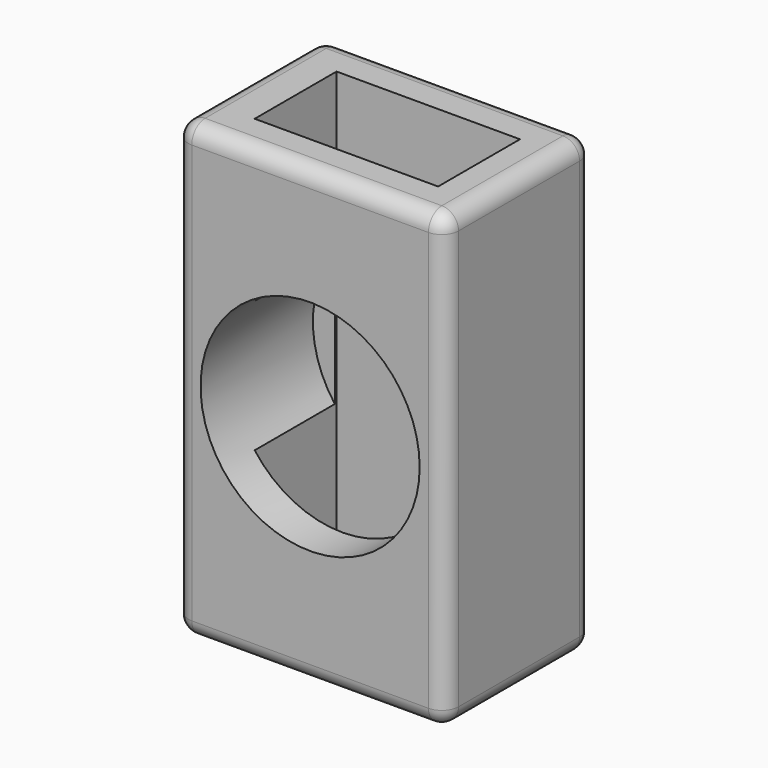
from build123d import *

# Parameters (mm, degrees)
F0_W     = 82.09557
F0_H     = 137.457938
F1_DEPTH = 56.134
F2_R     = 5.08
F3_W     = 55.741566
F3_H     = 31.093935
F5_DEPTH = 129.286
F4_R     = 33.290636
F6_DEPTH = 42.672


with BuildPart() as f1:
    # F0 (on Front) → F1 (new body)
    with BuildSketch(Plane.XZ):
        Rectangle(F0_W, F0_H)
    extrude(amount=F1_DEPTH)

    # F2
    f2_edges = [f1.edges().sort_by_distance(p)[0] for p in [
        (0, -56.134, 68.728969),
        (41.047785, -28.067, 68.728969),
        (0, 0, 68.728969),
        (-41.047785, -28.067, 68.728969),
        (41.047785, -56.134, 0),
        (-41.047785, -56.134, 0),
        (0, -56.134, -68.728969),
        (41.047785, -28.067, -68.728969),
        (0, 0, -68.728969),
        (-41.047785, -28.067, -68.728969),
        (41.047785, 0, 0),
        (-41.047785, 0, 0),
    ]]
    fillet(f2_edges, radius=F2_R)

    # F3 (on face) → F5 (cut)
    with BuildSketch(Plane.XY.offset(68.728969)):
        with Locations((1.232381, -28.344775)):
            Rectangle(F3_W, F3_H)
    extrude(amount=-F5_DEPTH, mode=Mode.SUBTRACT)

    # F4 (on face) → F6 (cut)
    with BuildSketch(Plane.XZ.offset(56.134)):
        Circle(F4_R)
    extrude(amount=-F6_DEPTH, mode=Mode.SUBTRACT)


solid = f1.part
